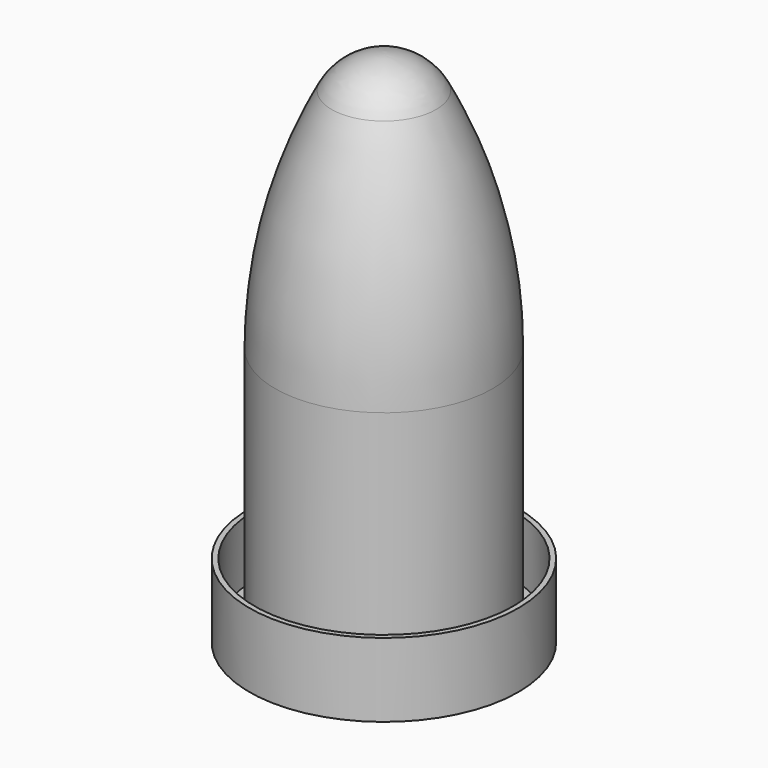
from build123d import *

# Parameters (mm, degrees)
SKETCH_R       = 17.5
SKETCH_R_2     = 15.1
PAD_DEPTH      = 1.2
SKETCH001_R    = 18.2
SKETCH001_R_2  = 17.5
PAD001_DEPTH   = 10
CYLINDER_R     = 17.25
CYLINDER_DEPTH = 0.8
SKETCH002_R    = 17.1
SKETCH002_R_2  = 14.725
PAD002_DEPTH   = 1.2


with BuildPart() as obj1:
    # Sketch → Pad (new body)
    with BuildSketch(Plane.XY):
        Circle(SKETCH_R)
        Circle(SKETCH_R_2, mode=Mode.SUBTRACT)
    extrude(amount=PAD_DEPTH)

    # Sketch001 → Pad001 (join)
    with BuildSketch(Plane.XY):
        Circle(SKETCH001_R)
        Circle(SKETCH001_R_2, mode=Mode.SUBTRACT)
    extrude(amount=PAD001_DEPTH)


with BuildPart() as obj2:
    # Cylinder → Cylinder (join)
    with BuildSketch(Plane.XY.offset(1.2)):
        Circle(CYLINDER_R)
    extrude(amount=CYLINDER_DEPTH)


with BuildPart() as tubo:
    # Sketch002 → Pad002 (new body)
    with BuildSketch(Plane.XY):
        Circle(SKETCH002_R)
        Circle(SKETCH002_R_2, mode=Mode.SUBTRACT)
    extrude(amount=PAD002_DEPTH)

    # Sketch003 → Revolution (revolve)
    with BuildSketch(Plane.XZ):
        with BuildLine():
            Line((14.725, 0), (14.725, 35))
            ThreePointArc((14.725, 35), (12.781282, 50.845974), (7.065376, 65.752395))
            ThreePointArc((7.065376, 65.752395), (4.121944, 68.856353), (0, 70))
            Line((0, 70), (0, 68.2))
            ThreePointArc((5.475666, 64.908106), (3.194507, 67.313674), (0, 68.2))
            ThreePointArc((12.925, 35), (11.034645, 50.410933), (5.475666, 64.908106))
            Line((12.925, 0), (12.925, 35))
            Line((12.925, 0), (14.725, 0))
        make_face()
    revolve(axis=Axis((0, 0, 0), (0, 0, 1)))


solid = Compound([obj1.part, obj2.part, tubo.part])
